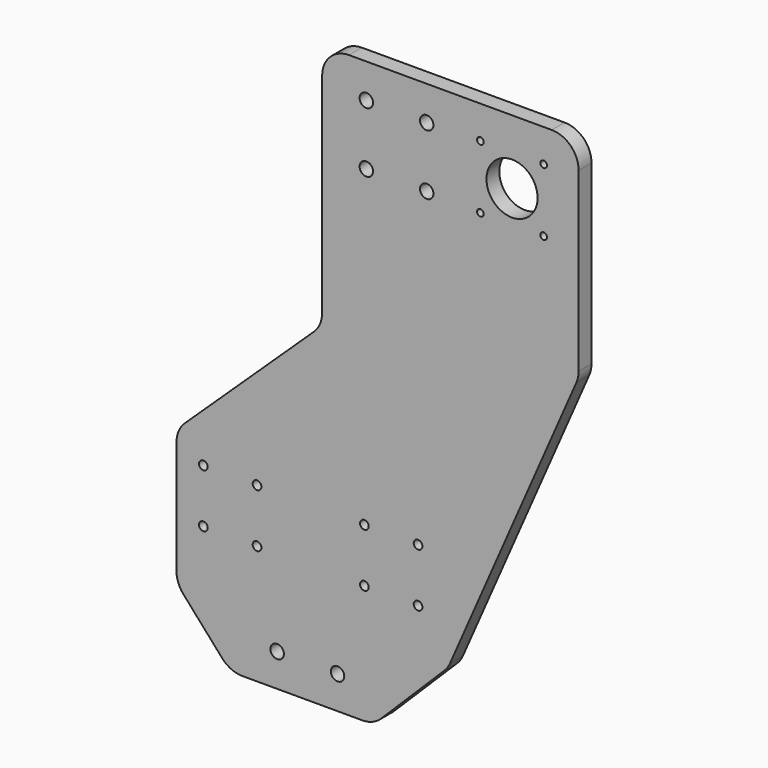
from build123d import *

# Parameters (mm, degrees)
F0_R     = 3.24
F0_R_2   = 5
F0_R_3   = 2.5
F0_R_4   = 19.05
F1_DEPTH = 12


with BuildPart() as f1:
    # F0 (on Front) → F1 (new body)
    with BuildSketch(Plane.XZ):
        with BuildLine():
            Line((-93.341041, -90.770204), (-93.341041, -135.075137))
            Line((-93.341041, -135.075137), (-93.341041, -175.448593))
            ThreePointArc((-93.341041, -175.448593), (-92.039, -182.546927), (-88.302406, -188.721028))
            Line((-88.302406, -188.721028), (-59.25506, -221.464676))
            ThreePointArc((-59.25506, -221.464676), (-52.495867, -226.432973), (-44.293695, -228.19224))
            Line((-44.293695, -228.19224), (45.144402, -228.19224))
            ThreePointArc((45.144402, -228.19224), (52.768976, -226.681855), (59.241946, -222.378827))
            Line((59.241946, -222.378827), (106.267155, -175.648774))
            ThreePointArc((106.267155, -175.648774), (108.667131, -172.768461), (110.48738, -169.490843))
            Line((110.48738, -169.490843), (204.597465, 45.22591))
            ThreePointArc((204.597465, 45.22591), (205.85462, 49.153065), (206.279695, 53.254565))
            Line((206.279695, 53.254565), (206.279695, 185))
            ThreePointArc((206.279695, 185), (200.421831, 199.142136), (186.279695, 205))
            Line((186.279695, 205), (173.125218, 205))
            Line((173.125218, 205), (115.360413, 205))
            Line((115.360413, 205), (35.189114, 205))
            ThreePointArc((35.189114, 205), (21.046978, 199.142136), (15.189114, 185))
            Line((15.189114, 185), (15.189114, 29.439526))
            ThreePointArc((15.189114, 29.439526), (13.565654, 21.546314), (8.958835, 14.934534))
            Line((8.958835, 14.934534), (-87.110762, -76.265212))
            ThreePointArc((-87.110762, -76.265212), (-91.717581, -82.876992), (-93.341041, -90.770204))
        make_face()
        with Locations((-73.341041, -139.456751)):
            Circle(F0_R, mode=Mode.SUBTRACT)
        with Locations((-33.341041, -139.456751)):
            Circle(F0_R, mode=Mode.SUBTRACT)
        with Locations((-18.341041, -203.674089)):
            Circle(F0_R_2, mode=Mode.SUBTRACT)
        with Locations((26.658959, -203.674089)):
            Circle(F0_R_2, mode=Mode.SUBTRACT)
        with Locations((46.658959, -139.456751)):
            Circle(F0_R, mode=Mode.SUBTRACT)
        with Locations((-73.341041, -99.456751)):
            Circle(F0_R, mode=Mode.SUBTRACT)
        with Locations((-33.341041, -99.456751)):
            Circle(F0_R, mode=Mode.SUBTRACT)
        with Locations((46.658959, -99.456751)):
            Circle(F0_R, mode=Mode.SUBTRACT)
        with Locations((86.658959, -139.456751)):
            Circle(F0_R, mode=Mode.SUBTRACT)
        with Locations((86.658959, -99.456751)):
            Circle(F0_R, mode=Mode.SUBTRACT)
        with Locations((48.096499, 134.456751)):
            Circle(F0_R_2, mode=Mode.SUBTRACT)
        with Locations((48.096499, 179.456751)):
            Circle(F0_R_2, mode=Mode.SUBTRACT)
        with Locations((93.096499, 134.456751)):
            Circle(F0_R_2, mode=Mode.SUBTRACT)
        with Locations((93.096499, 179.456751)):
            Circle(F0_R_2, mode=Mode.SUBTRACT)
        with Locations((133.096499, 133.386751)):
            Circle(F0_R_3, mode=Mode.SUBTRACT)
        with Locations((180.236499, 133.386751)):
            Circle(F0_R_3, mode=Mode.SUBTRACT)
        with Locations((156.666499, 156.956751)):
            Circle(F0_R_4, mode=Mode.SUBTRACT)
        with Locations((133.096499, 180.526751)):
            Circle(F0_R_3, mode=Mode.SUBTRACT)
        with Locations((180.236499, 180.526751)):
            Circle(F0_R_3, mode=Mode.SUBTRACT)
    extrude(amount=F1_DEPTH)


solid = f1.part
